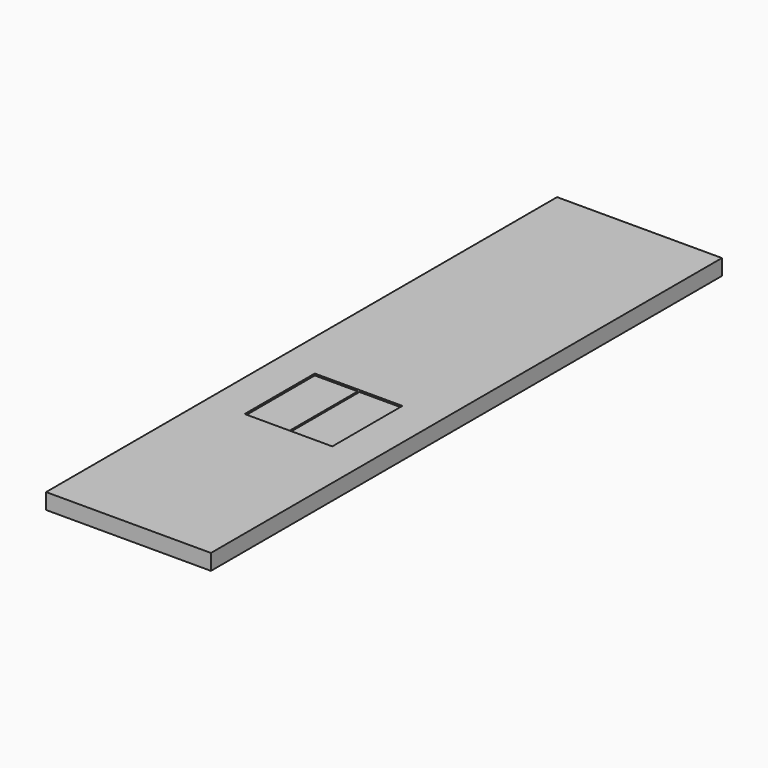
from build123d import *

# Parameters (mm, degrees)
SKETCH_W     = 9.4
SKETCH_H     = 36.42
SKETCH_W_2   = 0.1
SKETCH_H_2   = 5
PAD_DEPTH    = 0.9
SKETCH001_W  = 5
SKETCH001_H  = 5
POCKET_DEPTH = 0.1


with BuildPart() as part:
    # Sketch → Pad (new body)
    with BuildSketch(Plane.XY):
        with Locations((4.7, 18.21)):
            Rectangle(SKETCH_W, SKETCH_H)
        with Locations((4.7, 13.9)):
            Rectangle(SKETCH_W_2, SKETCH_H_2, mode=Mode.SUBTRACT)
    extrude(amount=PAD_DEPTH)

    # Sketch001 (on Face10 of Pad) → Pocket (cut)
    with BuildSketch(Plane.XY.offset(0.9)):
        with Locations((4.7, 13.9)):
            Rectangle(SKETCH001_W, SKETCH001_H)
    extrude(amount=-POCKET_DEPTH, mode=Mode.SUBTRACT)


solid = part.part
